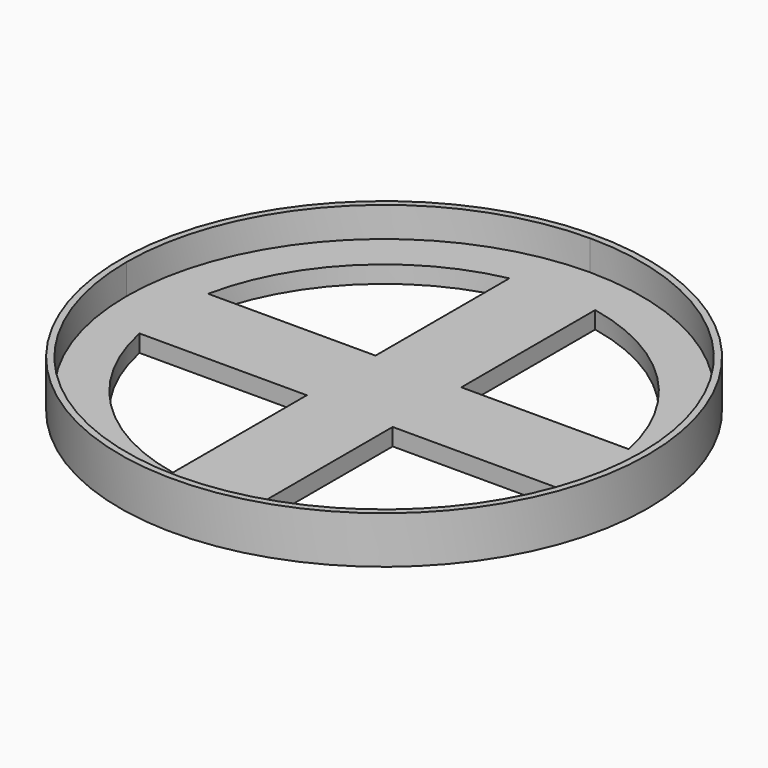
from build123d import *

# Parameters (mm, degrees)
F0_R     = 30.75
F1_DEPTH = 5.5
F2_DEPTH = 2


with BuildPart() as f1:
    # F0 (on Top) → F1 (new body)
    with BuildSketch(Plane.XY):
        Circle(F0_R)
        with BuildLine():
            ThreePointArc((0, -30), (-21.213203, -21.213203), (-30, 0))
            ThreePointArc((-30, 0), (-21.213203, 21.213203), (0, 30))
            ThreePointArc((0, 30), (21.213203, 21.213203), (30, 0))
            ThreePointArc((30, 0), (21.213203, -21.213203), (0, -30))
        make_face(mode=Mode.SUBTRACT)
    extrude(amount=F1_DEPTH)

    # F0 (on Top) → F2 (join)
    with BuildSketch(Plane.XY):
        with BuildLine():
            Line((-30, 0), (0, 0))
            Line((0, 0), (0, 30))
            ThreePointArc((0, 30), (-21.213203, 21.213203), (-30, 0))
        make_face()
        with BuildLine():
            Line((-5, 24.494897), (-5, 5))
            Line((-5, 5), (-24.494897, 5))
            ThreePointArc((-24.494897, 5), (-17.67767, 17.67767), (-5, 24.494897))
        make_face(mode=Mode.SUBTRACT)
        with BuildLine():
            Line((0, 30), (0, 0))
            Line((0, 0), (30, 0))
            ThreePointArc((30, 0), (21.213203, 21.213203), (0, 30))
        make_face()
        with BuildLine():
            Line((24.494897, 5), (5, 5))
            Line((5, 5), (5, 24.494897))
            ThreePointArc((5, 24.494897), (17.67767, 17.67767), (24.494897, 5))
        make_face(mode=Mode.SUBTRACT)
        with BuildLine():
            Line((30, 0), (0, 0))
            Line((0, 0), (0, -30))
            ThreePointArc((0, -30), (21.213203, -21.213203), (30, 0))
        make_face()
        with BuildLine():
            Line((5, -24.494897), (5, -5))
            Line((5, -5), (24.494897, -5))
            ThreePointArc((24.494897, -5), (17.67767, -17.67767), (5, -24.494897))
        make_face(mode=Mode.SUBTRACT)
        with BuildLine():
            Line((0, -30), (0, 0))
            Line((0, 0), (-30, 0))
            ThreePointArc((-30, 0), (-21.213203, -21.213203), (0, -30))
        make_face()
        with BuildLine():
            Line((-24.494897, -5), (-5, -5))
            Line((-5, -5), (-5, -24.494897))
            ThreePointArc((-5, -24.494897), (-17.67767, -17.67767), (-24.494897, -5))
        make_face(mode=Mode.SUBTRACT)
    extrude(amount=F2_DEPTH)


solid = f1.part
